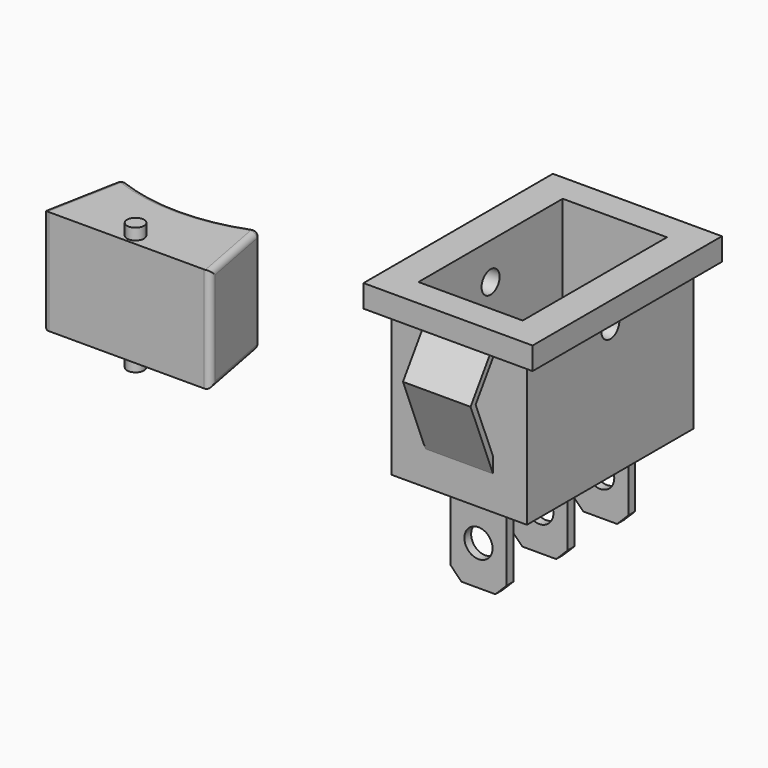
from build123d import *

# Parameters (mm, degrees)
F0_W           = 5
F0_H           = 0.75
F1_DEPTH       = 7.75
F0_W_2         = 12
F0_H_2         = 18.5
F0_W_3         = 9.25
F0_H_3         = 16
F2_DEPTH       = 13
F3_DEPTH       = 2.5
F4_START       = 13
F0_W_4         = 15
F0_H_4         = 21
F4_DEPTH       = 2
F5_R           = 1
F6_DEPTH       = 13.501
F7_START       = -3
F7_DEPTH       = 6
F8_R           = 1.25
F9_DEPTH       = 12.5
F10_SIZE       = 1
F10_2_SIZE     = 1
F10_3_SIZE     = 1
F11_R          = 0.75
F12_DEPTH      = 9.3
F13_DEPTH      = 10.3
F13_DEPTH_BACK = 1
F14_R          = 0.5


with BuildPart() as f1:
    # F0 (on Top) → F1 (new body)
    with BuildSketch(Plane.XY):
        Rectangle(F0_W, F0_H)
    extrude(amount=-F1_DEPTH)


with BuildPart() as f1b:
    # F0 (on Top) → F1, piece 2 (new body)
    with BuildSketch(Plane.XY):
        with Locations((0, 6.75)):
            Rectangle(F0_W, F0_H)
    extrude(amount=-F1_DEPTH)


with BuildPart() as f1c:
    # F0 (on Top) → F1, piece 3 (new body)
    with BuildSketch(Plane.XY):
        with Locations((0, -6.75)):
            Rectangle(F0_W, F0_H)
    extrude(amount=-F1_DEPTH)


with BuildPart() as f2:
    # F0 (on Top) → F2 (new body)
    with BuildSketch(Plane.XY):
        Rectangle(F0_W_2, F0_H_2)
        Rectangle(F0_W_3, F0_H_3, mode=Mode.SUBTRACT)
    extrude(amount=F2_DEPTH)

    # F0 (on Top) → F3 (join)
    with BuildSketch(Plane.XY):
        Rectangle(F0_W_3, F0_H_3)
        with Locations((0, -6.75)):
            Rectangle(F0_W, F0_H, mode=Mode.SUBTRACT)
        Rectangle(F0_W, F0_H, mode=Mode.SUBTRACT)
        with Locations((0, 6.75)):
            Rectangle(F0_W, F0_H, mode=Mode.SUBTRACT)
        with Locations((0, 6.75)):
            Rectangle(F0_W, F0_H)
        Rectangle(F0_W, F0_H)
        with Locations((0, -6.75)):
            Rectangle(F0_W, F0_H)
    extrude(amount=F3_DEPTH)

    # F0 (on Top) → F4 (join)
    with BuildSketch(Plane.XY.offset(F4_START)):
        Rectangle(F0_W_4, F0_H_4)
        Rectangle(F0_W_2, F0_H_2, mode=Mode.SUBTRACT)
        Rectangle(F0_W_2, F0_H_2)
        Rectangle(F0_W_3, F0_H_3, mode=Mode.SUBTRACT)
    extrude(amount=F4_DEPTH)

    # F5 (on face) → F6 (cut, through all)
    with BuildSketch(Plane(origin=(-6, 0, 0), x_dir=(0, -1, 0), z_dir=(-1, 0, 0))):
        with Locations((0, 11.75)):
            Circle(F5_R)
    extrude(amount=-F6_DEPTH, mode=Mode.SUBTRACT)

    # F5 (on face) → F7 (join)
    with BuildSketch(Plane(origin=(-6, 0, 0), x_dir=(0, -1, 0), z_dir=(-1, 0, 0)).offset(F7_START)):
        Polygon((-9.25, 12.1), (-9.25, 13), (-11.75, 9.2583426132), (-9.25, 3), (-9.25, 4.3478405286), (-11.1880398678, 9.199407525), align=None)
        Polygon((11.75, 9.2583426132), (9.25, 13), (9.25, 12.1), (11.1880398678, 9.199407525), (9.25, 4.3478405286), (9.25, 3), align=None)
    extrude(amount=-F7_DEPTH)


with BuildPart() as f9_tool:
    # F8 (on Front) → F9 (new body, symmetric)
    with BuildSketch(Plane.XZ):
        with Locations((0, -4.25)):
            Circle(F8_R)
    extrude(amount=F9_DEPTH, both=True)


with BuildPart() as f1_1:
    add(f1.part)

    # F9: cut by f9_tool
    add(f9_tool.part, mode=Mode.SUBTRACT)

    # F10#2
    f10_2_edges = [f1_1.edges().sort_by_distance(p)[0] for p in [
        (-2.5, 0, -7.75),
        (2.5, 0, -7.75),
    ]]
    chamfer(f10_2_edges, length=F10_2_SIZE)


with BuildPart() as f1b_1:
    add(f1b.part)

    # F9: cut by f9_tool
    add(f9_tool.part, mode=Mode.SUBTRACT)

    # F10
    f10_edges = [f1b_1.edges().sort_by_distance(p)[0] for p in [
        (2.5, 6.75, -7.75),
        (-2.5, 6.75, -7.75),
    ]]
    chamfer(f10_edges, length=F10_SIZE)


with BuildPart() as f1c_1:
    add(f1c.part)

    # F9: cut by f9_tool
    add(f9_tool.part, mode=Mode.SUBTRACT)

    # F10#3
    f10_3_edges = [f1c_1.edges().sort_by_distance(p)[0] for p in [
        (-2.5, -6.75, -7.75),
        (2.5, -6.75, -7.75),
    ]]
    chamfer(f10_3_edges, length=F10_3_SIZE)


with BuildPart() as f12:
    # F11 (on Top) → F12 (new body)
    with BuildSketch(Plane.XY):
        with BuildLine():
            ThreePointArc((-25, 0), (-31.125, -1.25), (-37.25, 0))
            Line((-37.25, 0), (-38.625, -7.25))
            Line((-38.625, -7.25), (-23.625, -7.25))
            Line((-23.625, -7.25), (-25, 0))
        make_face()
        with Locations((-31.125, -6.25)):
            Circle(F11_R, mode=Mode.SUBTRACT)
    extrude(amount=F12_DEPTH)

    # F11 (on Top) → F13 (join, two sides)
    with BuildSketch(Plane.XY) as f13_sk:
        with Locations((-31.125, -6.25)):
            Circle(F11_R)
    extrude(amount=F13_DEPTH)
    extrude(f13_sk.sketch, amount=-F13_DEPTH_BACK)

    # F14
    f14_edges = [f12.edges().sort_by_distance(p)[0] for p in [
        (-25, 0, 4.65),
        (-37.25, 0, 4.65),
        (-31.125, -1.25, 0),
        (-31.125, -1.25, 9.3),
        (-38.625, -7.25, 4.65),
        (-37.9375, -3.625, 0),
        (-37.9375, -3.625, 9.3),
        (-23.625, -7.25, 4.65),
        (-24.3125, -3.625, 0),
        (-24.3125, -3.625, 9.3),
    ]]
    fillet(f14_edges, radius=F14_R)


solid = Compound([f2.part, f1_1.part, f1b_1.part, f1c_1.part, f12.part])
